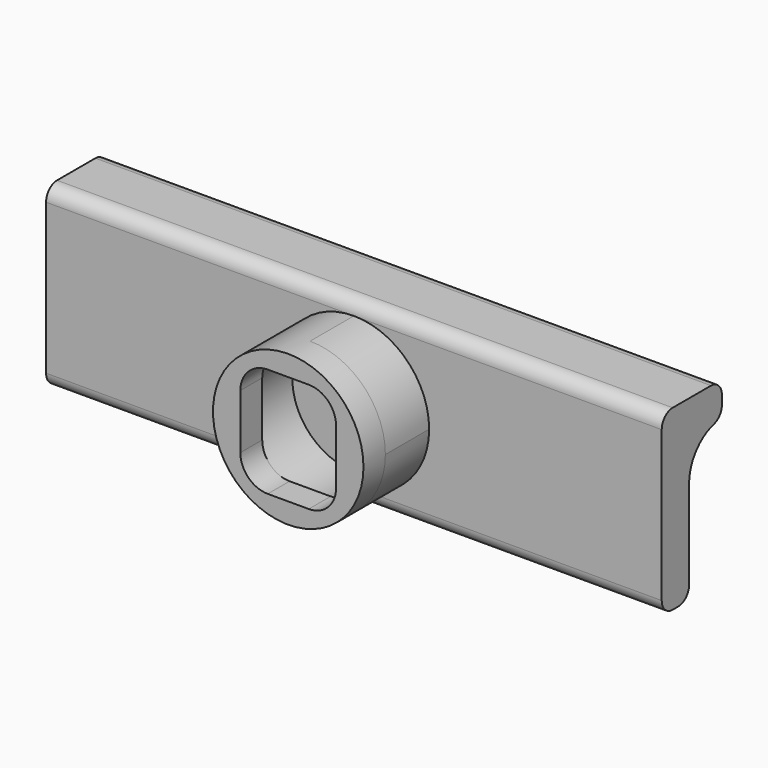
from build123d import *

# Parameters (mm, degrees)
F1_DEPTH = 57.15
F2_R     = 5.715
F3_DEPTH = 5.08
F4_R     = 6.985
F5_DEPTH = 2.54
F7_DEPTH = 5.08


with BuildPart() as f1:
    # F0 (on Right) → F1 (new body)
    with BuildSketch(Plane.YZ):
        with BuildLine():
            Line((0, 10.16), (0, 1.27))
            ThreePointArc((0, 1.27), (0.371974, 0.371974), (1.27, 0))
            Line((1.27, 0), (1.905, 0))
            ThreePointArc((1.905, 0), (2.803026, 0.371974), (3.175, 1.27))
            Line((3.175, 1.27), (3.175, 9.525))
            ThreePointArc((3.175, 9.525), (3.972931, 11.858139), (6.0325, 13.214017))
            ThreePointArc((6.0325, 13.214017), (6.719023, 13.665976), (6.985, 14.443689))
            Line((6.985, 14.443689), (6.985, 15.24))
            ThreePointArc((6.985, 15.24), (6.613026, 16.138026), (5.715, 16.51))
            Line((5.715, 16.51), (1.27, 16.51))
            ThreePointArc((1.27, 16.51), (0.371974, 16.138026), (0, 15.24))
            Line((0, 15.24), (0, 10.16))
        make_face()
    extrude(amount=F1_DEPTH)

    # F2 (on face) → F3 (join)
    with BuildSketch(Plane.XZ):
        with BuildLine():
            ThreePointArc((28.575, 1.27), (33.514141, 3.315859), (35.56, 8.255))
            ThreePointArc((35.56, 8.255), (33.514141, 13.194141), (28.575, 15.24))
            ThreePointArc((28.575, 15.24), (21.59, 8.255), (28.575, 1.27))
        make_face()
        with Locations((28.575, 8.255)):
            Circle(F2_R, mode=Mode.SUBTRACT)
    extrude(amount=F3_DEPTH)

    # F4 (on face) → F5 (join)
    with BuildSketch(Plane.XZ.offset(5.08)):
        with Locations((28.575, 8.255)):
            Circle(F4_R)
    extrude(amount=F5_DEPTH)

    # F6 (on face) → F7 (cut)
    with BuildSketch(Plane.XZ.offset(7.62)):
        with BuildLine():
            Line((30.48, 13.335), (28.575, 13.335))
            Line((28.575, 13.335), (26.67, 13.335))
            ThreePointArc((26.67, 13.335), (24.873949, 12.591051), (24.13, 10.795))
            Line((24.13, 10.795), (24.13, 5.715))
            ThreePointArc((24.13, 5.715), (24.873949, 3.918949), (26.67, 3.175))
            Line((26.67, 3.175), (30.48, 3.175))
            ThreePointArc((30.48, 3.175), (32.276051, 3.918949), (33.02, 5.715))
            Line((33.02, 5.715), (33.02, 8.255))
            Line((33.02, 8.255), (33.02, 10.795))
            ThreePointArc((33.02, 10.795), (32.276051, 12.591051), (30.48, 13.335))
        make_face()
    extrude(amount=-F7_DEPTH, mode=Mode.SUBTRACT)


solid = f1.part
